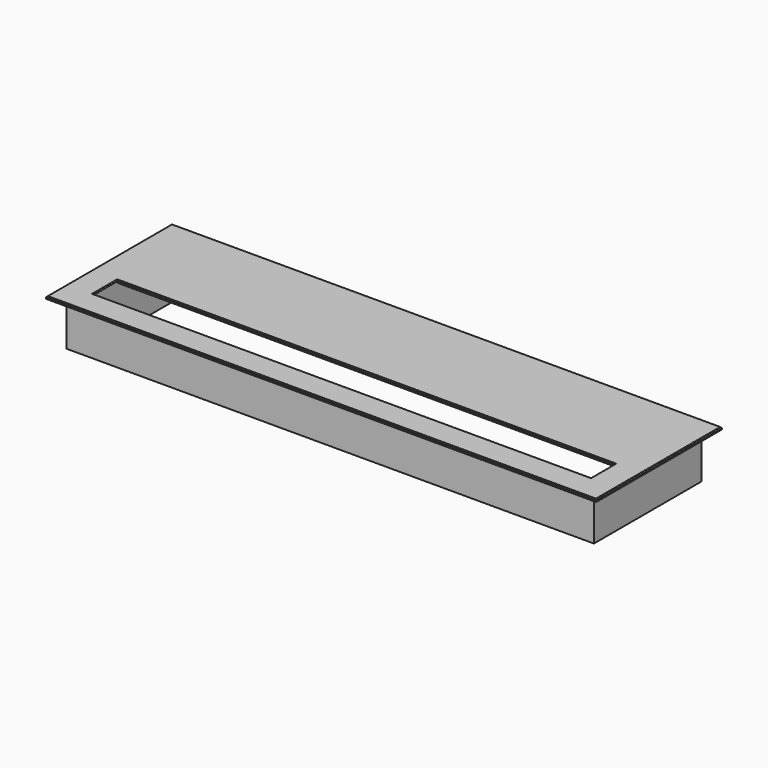
from build123d import *

# Parameters (mm, degrees)
F0_W     = 253
F0_H     = 38
F1_DEPTH = 1.2
F0_W_2   = 280
F0_H_2   = 80
F0_W_3   = 268.5
F0_H_3   = 68.5
F2_DEPTH = 24
F4_SIZE  = 0.5


with BuildPart() as f1:
    # F0 (on Top) → F1 (new body)
    with BuildSketch(Plane.XY):
        with Locations((-39.450533092, 8.8307528198)):
            Rectangle(F0_W, F0_H)
    extrude(amount=-F1_DEPTH)


with BuildPart() as f1b:
    # F0 (on Top) → F1, piece 2 (new body)
    with BuildSketch(Plane.XY):
        with Locations((-39.450533092, 1.3307528198)):
            Rectangle(F0_W_2, F0_H_2)
        with Locations((-39.450533092, 1.3307528198)):
            Rectangle(F0_W_3, F0_H_3, mode=Mode.SUBTRACT)
    extrude(amount=-F1_DEPTH)


with BuildPart() as f2:
    # F0 (on Top) → F2 (new body)
    with BuildSketch(Plane.XY):
        with Locations((-39.450533092, 1.3307528198)):
            Rectangle(F0_W_3, F0_H_3)
        Polygon((-165.950533092, -10.1692471802), (-165.950533092, 27.8307528198), (87.049466908, 27.8307528198), (87.049466908, -10.1692471802), (87.049466908, -25.1692471802), (-165.950533092, -25.1692471802), align=None, mode=Mode.SUBTRACT)
    extrude(amount=-F2_DEPTH)

    # F3: union F1, F1b
    add(f1.part)
    add(f1b.part)

    # F4
    f4_edges = [f2.edges().sort_by_distance(p)[0] for p in [
        (-39.450533, -38.669247, 0),
        (-179.450533, 1.330753, 0),
        (-39.450533, 41.330753, 0),
        (100.549467, 1.330753, 0),
        (-39.450533, -10.169247, 0),
        (87.049467, -17.669247, 0),
        (-39.450533, -25.169247, 0),
        (-165.950533, -17.669247, 0),
    ]]
    chamfer(f4_edges, length=F4_SIZE)


solid = f2.part
